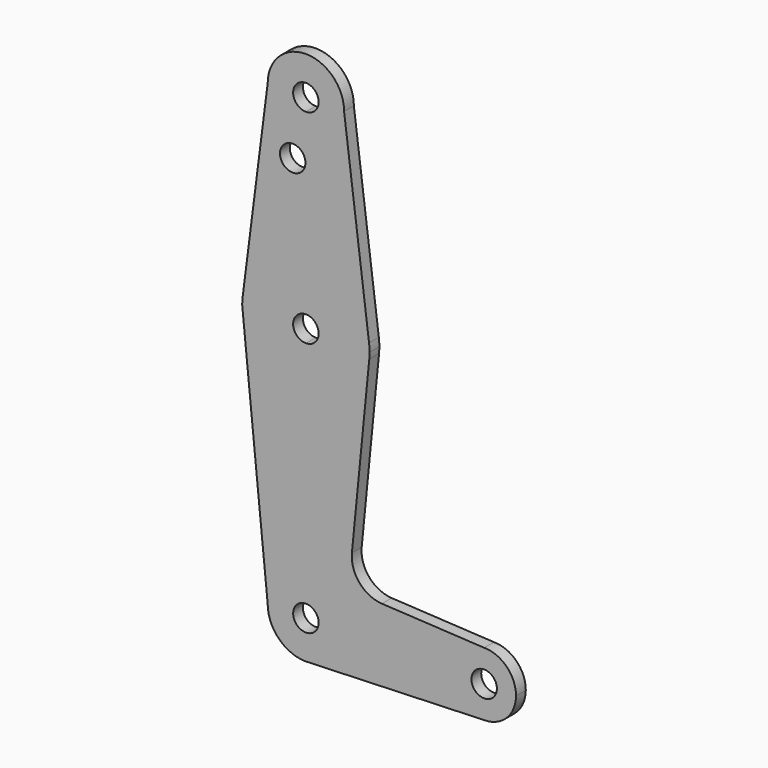
from build123d import *

# Parameters (mm, degrees)
F0_R     = 3.175
F1_DEPTH = 3.048


with BuildPart() as f1:
    # F0 (on Front) → F1 (new body)
    with BuildSketch(Plane.XZ):
        with BuildLine():
            ThreePointArc((-9.525, 114.3), (-6.7351920908, 107.5648079092), (0, 104.775))
            ThreePointArc((0, 104.775), (6.7351920908, 107.5648079092), (9.525, 114.3))
            ThreePointArc((9.525, 114.3), (0, 123.825), (-9.525, 114.3))
        make_face()
        with BuildLine():
            ThreePointArc((3.175, 114.3), (2.2450640303, 112.0549359697), (0, 111.125))
            ThreePointArc((0, 111.125), (-2.2450640303, 116.5450640303), (3.175, 114.3))
        make_face(mode=Mode.SUBTRACT)
        with BuildLine():
            ThreePointArc((-15.7474569047, 65.5082893304), (-10.4912828548, 75.4142187767), (0, 79.375))
            Line((0, 79.375), (0, 104.775))
            ThreePointArc((0, 104.775), (-6.7351920908, 107.5648079092), (-9.525, 114.3))
            Line((-9.525, 114.3), (-15.7474569047, 65.5082893304))
        make_face()
        with Locations((-3.2821337607, 99.8774357675)):
            Circle(F0_R, mode=Mode.SUBTRACT)
        with BuildLine():
            Line((0, 104.775), (0, 79.375))
            ThreePointArc((0, 79.375), (10.4912828548, 75.4142187767), (15.7474569047, 65.5082893304))
            Line((15.7474569047, 65.5082893304), (9.525, 114.3))
            ThreePointArc((9.525, 114.3), (6.7351920908, 107.5648079092), (0, 104.775))
        make_face()
        with BuildLine():
            Line((0, 60.325), (0, 47.625))
            ThreePointArc((0, 47.625), (10.6608459102, 51.7372626707), (15.7985171843, 61.9435682547))
            ThreePointArc((15.7985171843, 61.9435682547), (15.8558677672, 62.7208451054), (15.875, 63.5))
            ThreePointArc((15.875, 63.5), (15.8430821396, 64.5061676396), (15.7474569047, 65.5082893304))
            ThreePointArc((15.7474569047, 65.5082893304), (10.4912828548, 75.4142187767), (0, 79.375))
            Line((0, 79.375), (0, 66.675))
            ThreePointArc((0, 66.675), (2.2450640303, 65.7450640303), (3.175, 63.5))
            ThreePointArc((3.175, 63.5), (2.2450640303, 61.2549359697), (0, 60.325))
        make_face()
        with BuildLine():
            ThreePointArc((-15.5606435644, 60.3564356436), (-10.0526499203, 51.2134278751), (0, 47.625))
            Line((0, 47.625), (0, 60.325))
            ThreePointArc((0, 60.325), (-3.175, 63.5), (0, 66.675))
            Line((0, 66.675), (0, 79.375))
            ThreePointArc((0, 79.375), (-10.4912828548, 75.4142187767), (-15.7474569047, 65.5082893304))
            ThreePointArc((-15.7474569047, 65.5082893304), (-15.8430821396, 64.5061676396), (-15.875, 63.5))
            Line((-15.875, 63.5), (-15.5606435644, 60.3564356436))
        make_face()
        with BuildLine():
            ThreePointArc((-9.525, 0), (-6.7351920908, 6.7351920908), (0, 9.525))
            Line((0, 9.525), (0, 47.625))
            ThreePointArc((0, 47.625), (-10.0526499203, 51.2134278751), (-15.5606435644, 60.3564356436))
            Line((-15.5606435644, 60.3564356436), (-9.525, 0))
        make_face()
        with BuildLine():
            ThreePointArc((0, 9.525), (6.7351920908, 6.7351920908), (9.525, 0))
            Line((9.525, 0), (36.5125, 0))
            ThreePointArc((36.5125, 0), (38.8373399243, 5.6126600757), (44.45, 7.9375))
            Line((44.45, 7.9375), (18.9529743889, 9.3271481902))
            ThreePointArc((18.9529743889, 9.3271481902), (13.3517100141, 12.0889452923), (11.4737395364, 18.045027286))
            Line((11.4737395364, 18.045027286), (15.7985171843, 61.9435682547))
            ThreePointArc((15.7985171843, 61.9435682547), (10.6608459102, 51.7372626707), (0, 47.625))
            Line((0, 47.625), (0, 9.525))
        make_face()
        with BuildLine():
            ThreePointArc((0.6794904459, -9.5007324841), (6.9712901065, -6.4905114784), (9.525, 0))
            Line((9.525, 0), (3.175, 0))
            ThreePointArc((3.175, 0), (-2.2450640303, -2.2450640303), (0, 3.175))
            Line((0, 3.175), (0, 9.525))
            ThreePointArc((0, 9.525), (-6.7351920908, 6.7351920908), (-9.525, 0))
            ThreePointArc((-9.525, 0), (-6.7351920908, -6.7351920908), (0, -9.525))
            Line((0, -9.525), (0.6794904459, -9.5007324841))
        make_face()
        with BuildLine():
            Line((3.175, 0), (9.525, 0))
            ThreePointArc((9.525, 0), (6.7351920908, 6.7351920908), (0, 9.525))
            Line((0, 9.525), (0, 3.175))
            ThreePointArc((0, 3.175), (2.2450640303, 2.2450640303), (3.175, 0))
        make_face()
        with BuildLine():
            Line((36.5125, 0), (9.525, 0))
            ThreePointArc((9.525, 0), (6.9712901065, -6.4905114784), (0.6794904459, -9.5007324841))
            Line((0.6794904459, -9.5007324841), (44.45, -7.9375))
            ThreePointArc((44.45, -7.9375), (38.8373399243, -5.6126600757), (36.5125, 0))
        make_face()
        with BuildLine():
            ThreePointArc((44.45, 7.9375), (38.8373399243, 5.6126600757), (36.5125, 0))
            ThreePointArc((36.5125, 0), (38.8373399243, -5.6126600757), (44.45, -7.9375))
            ThreePointArc((44.45, -7.9375), (50.0626600757, -5.6126600757), (52.3875, 0))
            ThreePointArc((52.3875, 0), (50.0626600757, 5.6126600757), (44.45, 7.9375))
        make_face()
        with BuildLine():
            ThreePointArc((47.625, 0), (44.45, -3.175), (41.275, 0))
            ThreePointArc((41.275, 0), (44.45, 3.175), (47.625, 0))
        make_face(mode=Mode.SUBTRACT)
    extrude(amount=F1_DEPTH)


solid = f1.part
